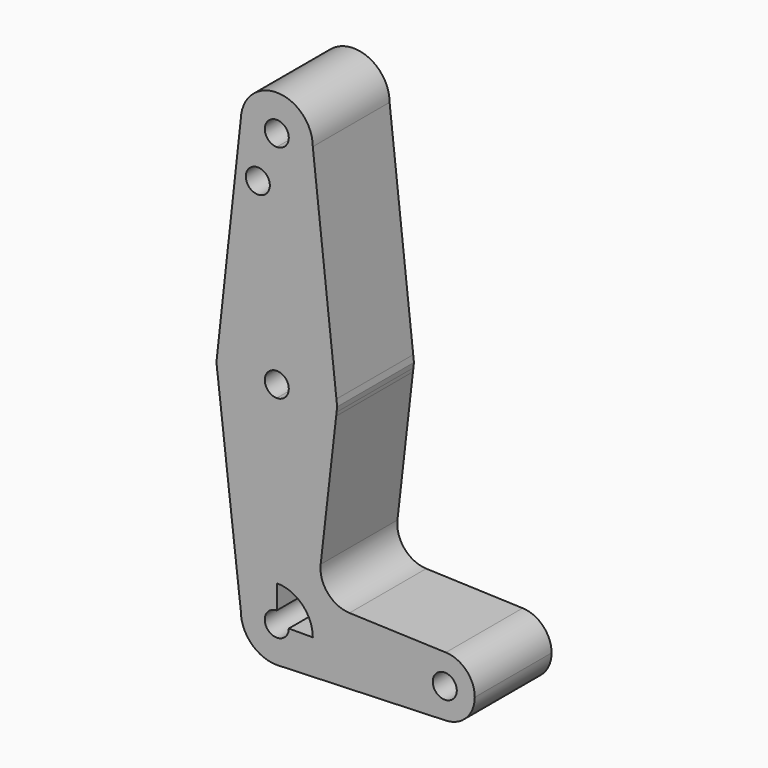
from build123d import *

# Parameters (mm, degrees)
F0_R     = 3.175
F1_DEPTH = 25.4
F2_DEPTH = 25.4


with BuildPart() as f1:
    # F0 (on Front) → F1 (new body)
    with BuildSketch(Plane.XZ):
        with BuildLine():
            ThreePointArc((-9.5208687759, 58.7642191463), (-6.8336458046, 51.8484369983), (0, 48.9587146878))
            ThreePointArc((0, 48.9587146878), (6.7351920908, 51.748522597), (9.525, 58.4837146878))
            ThreePointArc((9.525, 58.4837146878), (0.1402674394, 68.0076818258), (-9.5208687759, 58.7642191463))
        make_face()
        with BuildLine():
            ThreePointArc((3.175, 58.4837146878), (2.2450640303, 56.2386506576), (0, 55.3087146878))
            ThreePointArc((0, 55.3087146878), (-2.2450640303, 60.7287787181), (3.175, 58.4837146878))
        make_face(mode=Mode.SUBTRACT)
        with BuildLine():
            ThreePointArc((9.525, 58.4837146878), (6.7351920908, 51.748522597), (0, 48.9587146878))
            Line((0, 48.9587146878), (0, 15.875))
            ThreePointArc((0, 15.875), (10.5925769126, 11.8242521687), (15.7794394371, 1.7392285795))
            Line((15.7794394371, 1.7392285795), (9.525, 58.4837146878))
        make_face()
        with BuildLine():
            Line((0, 15.875), (0, 48.9587146878))
            ThreePointArc((0, 48.9587146878), (-6.8336458046, 51.8484369983), (-9.5208687759, 58.7642191463))
            Line((-9.5208687759, 58.7642191463), (-15.7802450107, 1.7319042706))
            ThreePointArc((-15.7802450107, 1.7319042706), (-10.5953207763, 11.8217935461), (0, 15.875))
        make_face()
        with Locations((-5.0171916373, 45.7818992436)):
            Circle(F0_R, mode=Mode.SUBTRACT)
        with BuildLine():
            ThreePointArc((15.7794394371, 1.7392285795), (10.5925769126, 11.8242521687), (0, 15.875))
            Line((0, 15.875), (0, 3.175))
            ThreePointArc((0, 3.175), (2.2450640303, 2.2450640303), (3.175, 0))
            ThreePointArc((3.175, 0), (2.2450640303, -2.2450640303), (0, -3.175))
            Line((0, -3.175), (0, -15.875))
            ThreePointArc((0, -15.875), (10.3872979688, -12.004985044), (15.7101551828, -2.2818083033))
            Line((15.7101551828, -2.2818083033), (15.819654741, -1.3244428544))
            ThreePointArc((15.819654741, -1.3244428544), (15.8611576503, -0.6627993611), (15.875, 0))
            ThreePointArc((15.875, 0), (15.8510918561, 0.8709259258), (15.7794394371, 1.7392285795))
        make_face()
        with BuildLine():
            Line((0, 3.175), (0, 15.875))
            ThreePointArc((0, 15.875), (-10.5953207763, 11.8217935461), (-15.7802450107, 1.7319042706))
            ThreePointArc((-15.7802450107, 1.7319042706), (-15.8731893077, 0.2397628051), (-15.825354401, -1.254505115))
            Line((-15.825354401, -1.254505115), (-15.6943816299, -2.3878882417))
            ThreePointArc((-15.6943816299, -2.3878882417), (-10.3466878556, -12.040003132), (0, -15.875))
            Line((0, -15.875), (0, -3.175))
            ThreePointArc((0, -3.175), (-3.175, 0), (0, 3.175))
        make_face()
        with BuildLine():
            Line((15.9711391169, 0), (15.7794394371, 1.7392285795))
            ThreePointArc((15.7794394371, 1.7392285795), (15.8510918561, 0.8709259258), (15.875, 0))
            ThreePointArc((15.875, 0), (15.8611576503, -0.6627993611), (15.819654741, -1.3244428544))
            Line((15.819654741, -1.3244428544), (15.9711391169, 0))
        make_face()
        with BuildLine():
            ThreePointArc((-15.825354401, -1.254505115), (-15.8731893077, 0.2397628051), (-15.7802450107, 1.7319042706))
            Line((-15.7802450107, 1.7319042706), (-15.970323924, 0))
            Line((-15.970323924, 0), (-15.825354401, -1.254505115))
        make_face()
        with BuildLine():
            Line((-15.6943816299, -2.3878882417), (-15.825354401, -1.254505115))
            ThreePointArc((-15.825354401, -1.254505115), (-15.77005324, -1.822373674), (-15.6943816299, -2.3878882417))
        make_face()
        with BuildLine():
            ThreePointArc((15.7101551828, -2.2818083033), (10.3872979688, -12.004985044), (0, -15.875))
            Line((0, -15.875), (0, -46.2912853122))
            ThreePointArc((0, -46.2912853122), (6.7351920908, -49.0810932214), (9.525, -55.8162853122))
            Line((9.525, -55.8162853122), (36.5125, -55.8162853122))
            ThreePointArc((36.5125, -55.8162853122), (38.9380895153, -50.1046525283), (44.7324052746, -47.8838106976))
            Line((44.7324052746, -47.8838106976), (19.2261546461, -46.9757586632))
            ThreePointArc((19.2261546461, -46.9757586632), (13.4833284693, -44.2168065864), (11.6103087299, -38.1271706272))
            Line((11.6103087299, -38.1271706272), (15.7101551828, -2.2818083033))
        make_face()
        with BuildLine():
            Line((0, -46.2912853122), (0, -15.875))
            ThreePointArc((0, -15.875), (-10.3466878556, -12.040003132), (-15.6943816299, -2.3878882417))
            Line((-15.6943816299, -2.3878882417), (-9.5249142041, -55.7758575439))
            ThreePointArc((-9.5249142041, -55.7758575439), (-6.7208835173, -49.0668149814), (0, -46.2912853122))
        make_face()
        with BuildLine():
            ThreePointArc((15.7101551828, -2.2818083033), (15.7721706055, -1.8039565935), (15.819654741, -1.3244428544))
            Line((15.819654741, -1.3244428544), (15.7101551828, -2.2818083033))
        make_face()
        with BuildLine():
            Line((0, -52.6412853122), (0, -46.2912853122))
            ThreePointArc((0, -46.2912853122), (-6.7208835173, -49.0668149814), (-9.5249142041, -55.7758575439))
            ThreePointArc((-9.5249142041, -55.7758575439), (-6.7494703308, -62.5371688295), (0, -65.3412853122))
            Line((0, -65.3412853122), (0.6773435479, -65.3171710982))
            ThreePointArc((0.6773435479, -65.3171710982), (6.9705567315, -62.3075844004), (9.525, -55.8162853122))
            Line((9.525, -55.8162853122), (3.175, -55.8162853122))
            ThreePointArc((3.175, -55.8162853122), (-2.2450640303, -58.0613493424), (0, -52.6412853122))
        make_face()
        with BuildLine():
            Line((36.5125, -55.8162853122), (9.525, -55.8162853122))
            ThreePointArc((9.525, -55.8162853122), (6.9705567315, -62.3075844004), (0.6773435479, -65.3171710982))
            Line((0.6773435479, -65.3171710982), (44.7324052746, -63.7487599268))
            ThreePointArc((44.7324052746, -63.7487599268), (38.9380895153, -61.5279180961), (36.5125, -55.8162853122))
        make_face()
        with BuildLine():
            Line((0.6773435479, -65.3171710982), (0, -65.3412853122))
            ThreePointArc((0, -65.3412853122), (0.3388863295, -65.3352548497), (0.6773435479, -65.3171710982))
        make_face()
        with BuildLine():
            ThreePointArc((44.7324052746, -47.8838106976), (38.9380895153, -50.1046525283), (36.5125, -55.8162853122))
            ThreePointArc((36.5125, -55.8162853122), (38.9380895153, -61.5279180961), (44.7324052746, -63.7487599268))
            ThreePointArc((44.7324052746, -63.7487599268), (50.1616327839, -61.3281957969), (52.3875, -55.8162853122))
            ThreePointArc((52.3875, -55.8162853122), (50.1616327839, -50.3043748275), (44.7324052746, -47.8838106976))
        make_face()
        with BuildLine():
            ThreePointArc((47.625, -55.8162853122), (44.45, -58.9912853122), (41.275, -55.8162853122))
            ThreePointArc((41.275, -55.8162853122), (44.45, -52.6412853122), (47.625, -55.8162853122))
        make_face(mode=Mode.SUBTRACT)
    extrude(amount=F1_DEPTH)

    # F0 (on Front) → F2 (join)
    with BuildSketch(Plane.XZ):
        with BuildLine():
            ThreePointArc((-9.5208687759, 58.7642191463), (-6.8336458046, 51.8484369983), (0, 48.9587146878))
            ThreePointArc((0, 48.9587146878), (6.7351920908, 51.748522597), (9.525, 58.4837146878))
            ThreePointArc((9.525, 58.4837146878), (0.1402674394, 68.0076818258), (-9.5208687759, 58.7642191463))
        make_face()
        with BuildLine():
            ThreePointArc((3.175, 58.4837146878), (2.2450640303, 56.2386506576), (0, 55.3087146878))
            ThreePointArc((0, 55.3087146878), (-2.2450640303, 60.7287787181), (3.175, 58.4837146878))
        make_face(mode=Mode.SUBTRACT)
        with BuildLine():
            ThreePointArc((9.525, 58.4837146878), (6.7351920908, 51.748522597), (0, 48.9587146878))
            Line((0, 48.9587146878), (0, 15.875))
            ThreePointArc((0, 15.875), (10.5925769126, 11.8242521687), (15.7794394371, 1.7392285795))
            Line((15.7794394371, 1.7392285795), (9.525, 58.4837146878))
        make_face()
        with BuildLine():
            Line((0, 15.875), (0, 48.9587146878))
            ThreePointArc((0, 48.9587146878), (-6.8336458046, 51.8484369983), (-9.5208687759, 58.7642191463))
            Line((-9.5208687759, 58.7642191463), (-15.7802450107, 1.7319042706))
            ThreePointArc((-15.7802450107, 1.7319042706), (-10.5953207763, 11.8217935461), (0, 15.875))
        make_face()
        with Locations((-5.0171916373, 45.7818992436)):
            Circle(F0_R, mode=Mode.SUBTRACT)
        with BuildLine():
            ThreePointArc((15.7794394371, 1.7392285795), (10.5925769126, 11.8242521687), (0, 15.875))
            Line((0, 15.875), (0, 3.175))
            ThreePointArc((0, 3.175), (2.2450640303, 2.2450640303), (3.175, 0))
            ThreePointArc((3.175, 0), (2.2450640303, -2.2450640303), (0, -3.175))
            Line((0, -3.175), (0, -15.875))
            ThreePointArc((0, -15.875), (10.3872979688, -12.004985044), (15.7101551828, -2.2818083033))
            Line((15.7101551828, -2.2818083033), (15.819654741, -1.3244428544))
            ThreePointArc((15.819654741, -1.3244428544), (15.8611576503, -0.6627993611), (15.875, 0))
            ThreePointArc((15.875, 0), (15.8510918561, 0.8709259258), (15.7794394371, 1.7392285795))
        make_face()
        with BuildLine():
            Line((0, 3.175), (0, 15.875))
            ThreePointArc((0, 15.875), (-10.5953207763, 11.8217935461), (-15.7802450107, 1.7319042706))
            ThreePointArc((-15.7802450107, 1.7319042706), (-15.8731893077, 0.2397628051), (-15.825354401, -1.254505115))
            Line((-15.825354401, -1.254505115), (-15.6943816299, -2.3878882417))
            ThreePointArc((-15.6943816299, -2.3878882417), (-10.3466878556, -12.040003132), (0, -15.875))
            Line((0, -15.875), (0, -3.175))
            ThreePointArc((0, -3.175), (-3.175, 0), (0, 3.175))
        make_face()
        with BuildLine():
            Line((15.9711391169, 0), (15.7794394371, 1.7392285795))
            ThreePointArc((15.7794394371, 1.7392285795), (15.8510918561, 0.8709259258), (15.875, 0))
            ThreePointArc((15.875, 0), (15.8611576503, -0.6627993611), (15.819654741, -1.3244428544))
            Line((15.819654741, -1.3244428544), (15.9711391169, 0))
        make_face()
        with BuildLine():
            ThreePointArc((-15.825354401, -1.254505115), (-15.8731893077, 0.2397628051), (-15.7802450107, 1.7319042706))
            Line((-15.7802450107, 1.7319042706), (-15.970323924, 0))
            Line((-15.970323924, 0), (-15.825354401, -1.254505115))
        make_face()
        with BuildLine():
            Line((-15.6943816299, -2.3878882417), (-15.825354401, -1.254505115))
            ThreePointArc((-15.825354401, -1.254505115), (-15.77005324, -1.822373674), (-15.6943816299, -2.3878882417))
        make_face()
        with BuildLine():
            ThreePointArc((15.7101551828, -2.2818083033), (10.3872979688, -12.004985044), (0, -15.875))
            Line((0, -15.875), (0, -46.2912853122))
            ThreePointArc((0, -46.2912853122), (6.7351920908, -49.0810932214), (9.525, -55.8162853122))
            Line((9.525, -55.8162853122), (36.5125, -55.8162853122))
            ThreePointArc((36.5125, -55.8162853122), (38.9380895153, -50.1046525283), (44.7324052746, -47.8838106976))
            Line((44.7324052746, -47.8838106976), (19.2261546461, -46.9757586632))
            ThreePointArc((19.2261546461, -46.9757586632), (13.4833284693, -44.2168065864), (11.6103087299, -38.1271706272))
            Line((11.6103087299, -38.1271706272), (15.7101551828, -2.2818083033))
        make_face()
        with BuildLine():
            Line((0, -46.2912853122), (0, -15.875))
            ThreePointArc((0, -15.875), (-10.3466878556, -12.040003132), (-15.6943816299, -2.3878882417))
            Line((-15.6943816299, -2.3878882417), (-9.5249142041, -55.7758575439))
            ThreePointArc((-9.5249142041, -55.7758575439), (-6.7208835173, -49.0668149814), (0, -46.2912853122))
        make_face()
        with BuildLine():
            ThreePointArc((15.7101551828, -2.2818083033), (15.7721706055, -1.8039565935), (15.819654741, -1.3244428544))
            Line((15.819654741, -1.3244428544), (15.7101551828, -2.2818083033))
        make_face()
        with BuildLine():
            Line((0, -52.6412853122), (0, -46.2912853122))
            ThreePointArc((0, -46.2912853122), (-6.7208835173, -49.0668149814), (-9.5249142041, -55.7758575439))
            ThreePointArc((-9.5249142041, -55.7758575439), (-6.7494703308, -62.5371688295), (0, -65.3412853122))
            Line((0, -65.3412853122), (0.6773435479, -65.3171710982))
            ThreePointArc((0.6773435479, -65.3171710982), (6.9705567315, -62.3075844004), (9.525, -55.8162853122))
            Line((9.525, -55.8162853122), (3.175, -55.8162853122))
            ThreePointArc((3.175, -55.8162853122), (-2.2450640303, -58.0613493424), (0, -52.6412853122))
        make_face()
        with BuildLine():
            Line((36.5125, -55.8162853122), (9.525, -55.8162853122))
            ThreePointArc((9.525, -55.8162853122), (6.9705567315, -62.3075844004), (0.6773435479, -65.3171710982))
            Line((0.6773435479, -65.3171710982), (44.7324052746, -63.7487599268))
            ThreePointArc((44.7324052746, -63.7487599268), (38.9380895153, -61.5279180961), (36.5125, -55.8162853122))
        make_face()
        with BuildLine():
            Line((0.6773435479, -65.3171710982), (0, -65.3412853122))
            ThreePointArc((0, -65.3412853122), (0.3388863295, -65.3352548497), (0.6773435479, -65.3171710982))
        make_face()
        with BuildLine():
            ThreePointArc((44.7324052746, -47.8838106976), (38.9380895153, -50.1046525283), (36.5125, -55.8162853122))
            ThreePointArc((36.5125, -55.8162853122), (38.9380895153, -61.5279180961), (44.7324052746, -63.7487599268))
            ThreePointArc((44.7324052746, -63.7487599268), (50.1616327839, -61.3281957969), (52.3875, -55.8162853122))
            ThreePointArc((52.3875, -55.8162853122), (50.1616327839, -50.3043748275), (44.7324052746, -47.8838106976))
        make_face()
        with BuildLine():
            ThreePointArc((47.625, -55.8162853122), (44.45, -58.9912853122), (41.275, -55.8162853122))
            ThreePointArc((41.275, -55.8162853122), (44.45, -52.6412853122), (47.625, -55.8162853122))
        make_face(mode=Mode.SUBTRACT)
    extrude(amount=F2_DEPTH)


solid = f1.part
